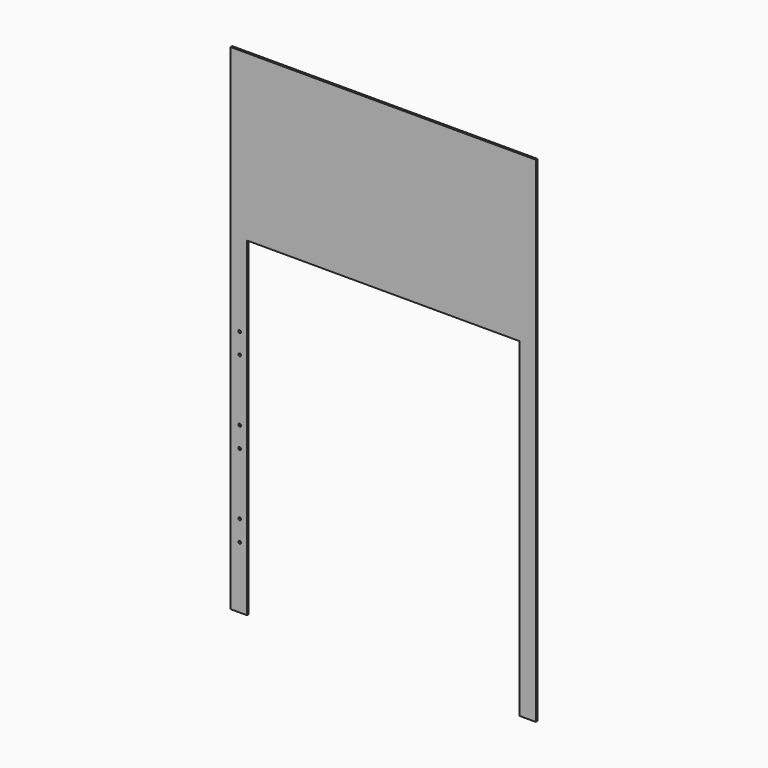
from build123d import *

# Parameters (mm, degrees)
F1_DEPTH = 2.5
F2_D     = 3.3
F2_DEPTH = 40
F2_TIP   = 0.9914200214


with BuildPart() as f1:
    # F0 (on Front) → F1 (new body)
    with BuildSketch(Plane.XZ):
        Polygon((0, -400), (0, 0), (330, 0), (330, -400), (350, -400), (350, 200), (-20, 200), (-20, -400), align=None)
    extrude(amount=F1_DEPTH)

    # F2
    with Locations(Plane(origin=(0, 0, 0), x_dir=(1, 0, 0), z_dir=(0, 1, 0))):
        with Locations((-9, 100), (-9, 200), (-9, 300), (-9, 125), (-9, 225), (-9, 325)):
            Hole(F2_D / 2, depth=F2_DEPTH)
            with Locations((0, 0, -(F2_DEPTH + F2_TIP / 2))):  # 118° drill point
                Cone(0, F2_D / 2, F2_TIP, mode=Mode.SUBTRACT)


solid = f1.part
